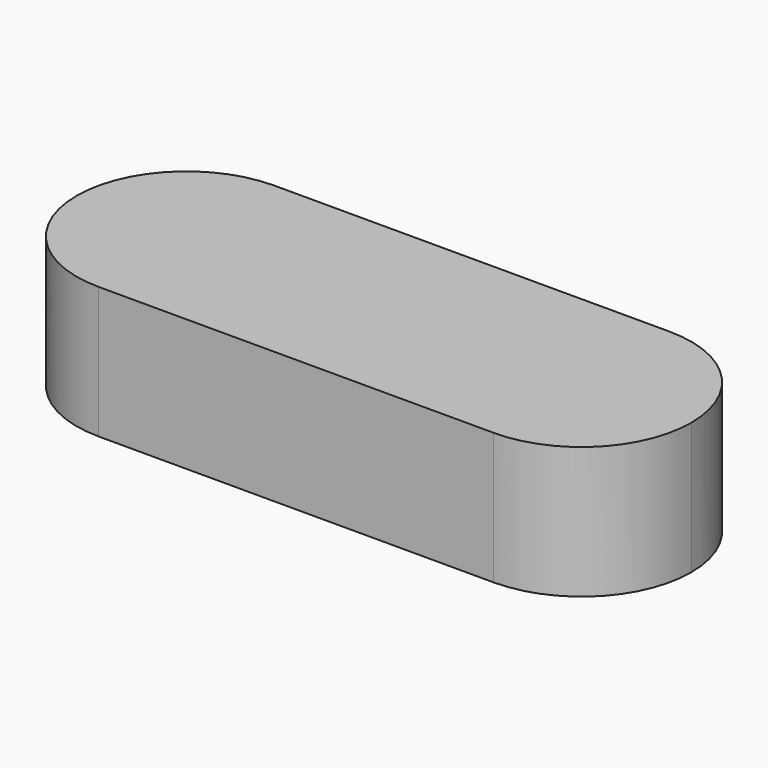
from build123d import *

# Parameters (mm, degrees)
F1_DEPTH = 12


with BuildPart() as f1:
    # F0 (on Top) → F1 (new body)
    with BuildSketch(Plane.XY):
        with BuildLine():
            ThreePointArc((28, 0), (25.071068, 7.071068), (18, 10))
            Line((18, 10), (-18, 10))
            ThreePointArc((-18, 10), (-25.071068, 7.071068), (-28, 0))
            ThreePointArc((-28, 0), (-25.071068, -7.071068), (-18, -10))
            Line((-18, -10), (18, -10))
            ThreePointArc((18, -10), (25.071068, -7.071068), (28, 0))
        make_face()
    extrude(amount=F1_DEPTH)


solid = f1.part
